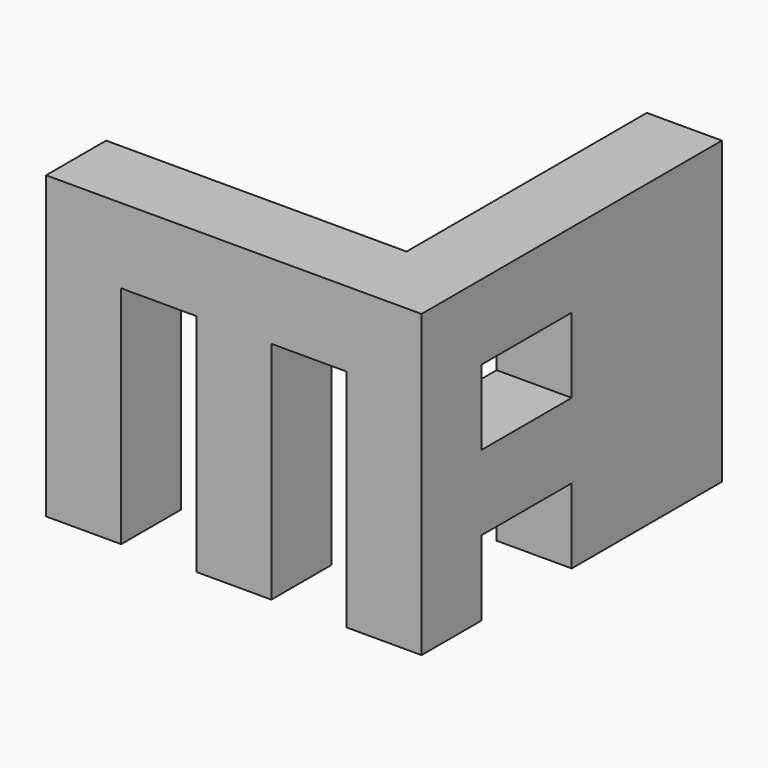
from build123d import *

# Parameters (mm, degrees)
F0_W     = 50
F0_H     = 40
F1_DEPTH = 50
F2_W     = 40
F2_H     = 40
F3_DEPTH = 50
F4_W     = 10
F4_H     = 30
F5_DEPTH = 10
F6_W     = 15
F6_H     = 10
F7_DEPTH = 10


with BuildPart() as f1:
    # F0 (on Front) → F1 (new body)
    with BuildSketch(Plane.XZ):
        with Locations((-60.347423, 20)):
            Rectangle(F0_W, F0_H)
    extrude(amount=F1_DEPTH)

    # F2 (on face) → F3 (cut)
    with BuildSketch(Plane.XY.offset(40)):
        with Locations((-65.347423, -20)):
            Rectangle(F2_W, F2_H)
    extrude(amount=-F3_DEPTH, mode=Mode.SUBTRACT)

    # F4 (on face) → F5 (cut)
    with BuildSketch(Plane.XZ.offset(50)):
        with Locations((-70.347423, 15)):
            Rectangle(F4_W, F4_H)
        with Locations((-50.347423, 15)):
            Rectangle(F4_W, F4_H)
    extrude(amount=-F5_DEPTH, mode=Mode.SUBTRACT)

    # F6 (on face) → F7 (cut)
    with BuildSketch(Plane.YZ.offset(-35.347423)):
        with Locations((-32.5, 25)):
            Rectangle(F6_W, F6_H)
        with Locations((-32.5, 5)):
            Rectangle(F6_W, F6_H)
    extrude(amount=-F7_DEPTH, mode=Mode.SUBTRACT)


solid = f1.part
